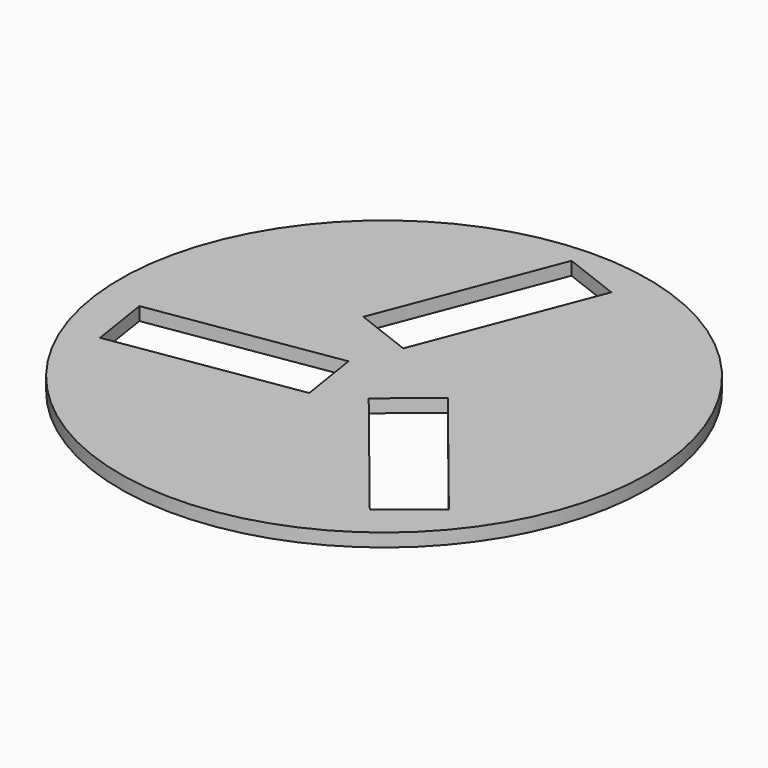
from build123d import *

# Parameters (mm, degrees)
F0_R     = 94
F2_DEPTH = 4.7
F5_DEPTH = 4.8


with BuildPart() as f2:
    # F0 (on Top) → F2 (new body)
    with BuildSketch(Plane.XY):
        with Locations((0, 3.286633)):
            Circle(F0_R)
    extrude(amount=-F2_DEPTH)

    # F1 (on Top) + F3 (on Top) + F4 (on Top) → F5 (cut)
    with BuildSketch(Plane.XY):
        Polygon((21.988586, 4.168563), (4.870629, -9.650827), (46.956953, -61.782787), (64.07491, -47.963397), align=None)
    with BuildSketch(Plane.XY):
        Polygon((-26.944155, 27.743882), (-6.417233, 19.828992), (17.687206, 82.342798), (-2.839715, 90.257689), align=None)
    with BuildSketch(Plane.XY):
        Polygon((-10.029213, -17.480458), (-13.438177, 4.253823), (-79.628941, -6.128023), (-76.219977, -27.862304), align=None)
    extrude(amount=-F5_DEPTH, mode=Mode.SUBTRACT)


solid = f2.part
